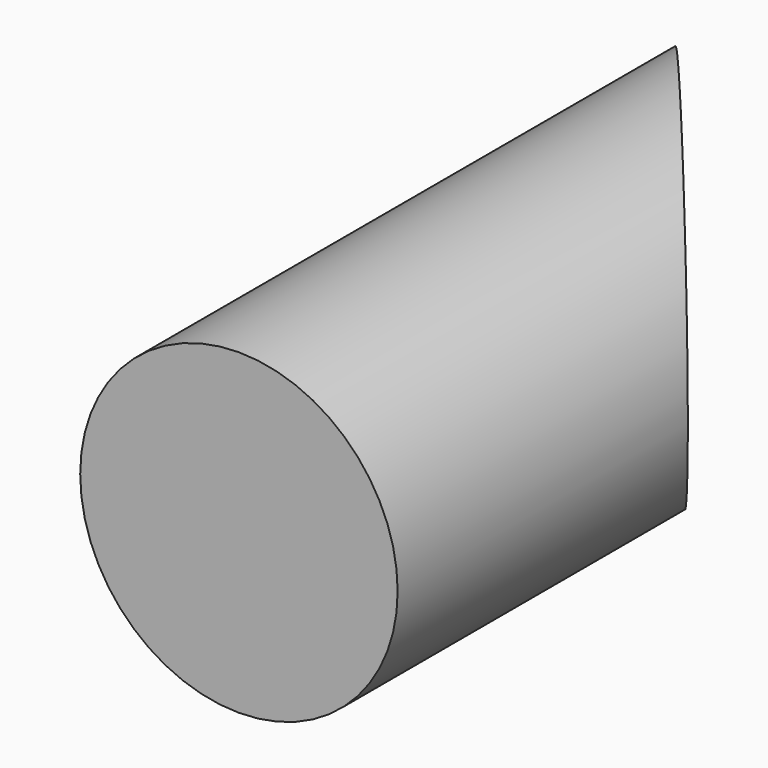
from build123d import *

# Parameters (mm, degrees)
F0_R     = 8.261173
F1_DEPTH = 38.1
F3_DEPTH = 56.62504
F4_DEPTH = 25.4


with BuildPart() as f1:
    # F0 (on Front) → F1 (new body)
    with BuildSketch(Plane.XZ):
        Circle(F0_R)
    extrude(amount=F1_DEPTH)

    # F2 (on Top) → F3 (cut)
    with BuildSketch(Plane.XY):
        Polygon((4.973335, 0), (-7.881857, 0), (4.973335, -15.320221), align=None)
        Polygon((4.973335, 0), (4.973335, -15.320221), (9.581642, -20.791901), (9.581642, 0), align=None)
    extrude(amount=-F3_DEPTH, mode=Mode.SUBTRACT)

    # F3_face (on face) → F4 (cut)
    with BuildSketch(Plane(origin=(2.879507, -6.411073, 0), x_dir=(1, 0, 0), z_dir=(0, 0, -1))):
        Polygon((-10.761363, -6.411073), (5.381667, -6.411073), (5.381667, 12.812967), (2.093829, 8.909148), align=None)
    extrude(amount=-F4_DEPTH, mode=Mode.SUBTRACT)


solid = f1.part
